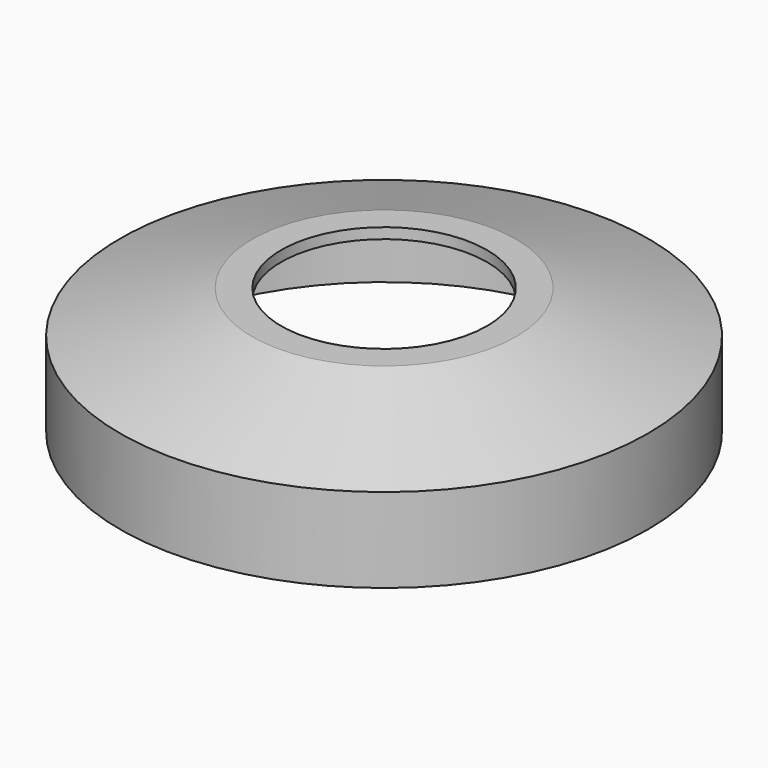
from build123d import *

# Parameters (mm, degrees)
F2_T     = -1
F3_R     = 9.75
F4_DEPTH = 1


with BuildPart() as f1:
    # F0 (on Front) → F1 (revolve)
    with BuildSketch(Plane.XZ):
        Polygon((0, 12), (0, 0), (25, 0), (25, 8), (12.5, 12), align=None)
    revolve(axis=Axis((0, 0, 39.176005), (0, 0, 1)))

    # F2
    f2_openings = [f1.faces().sort_by_distance(p)[0] for p in [
        (0, 0, 0),
    ]]
    offset(amount=F2_T, openings=f2_openings)

    # F3 (on face) → F4 (cut, through all)
    with BuildSketch(Plane.XY.offset(12)):
        Circle(F3_R)
    extrude(amount=-F4_DEPTH, mode=Mode.SUBTRACT)


solid = f1.part
